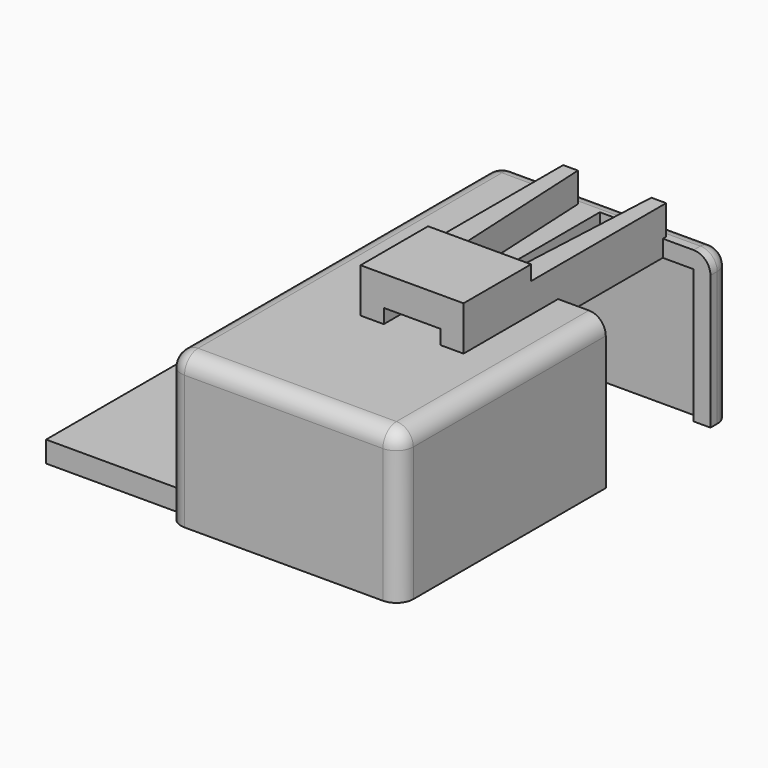
from build123d import *

# Parameters (mm, degrees)
SKETCH_W        = 47
SKETCH_H        = 90
PAD_DEPTH       = 35.75
THICKNESS_T     = 4
SKETCH001_R     = 0.025
POCKET_DEPTH    = 5
SKETCH002_W     = 7
SKETCH002_H     = 42
POCKET001_DEPTH = 5
SKETCH003_W     = 5.5
SKETCH003_H     = 60
PAD001_DEPTH    = 7
PAD001_FACE4_W  = 90
PAD001_FACE4_H  = 47
POCKET002_DEPTH = 4
SKETCH004_W     = 31
SKETCH004_H     = 40
POCKET003_DEPTH = 11.3
SKETCH005_W     = 90
SKETCH005_H     = 5
PAD002_DEPTH    = 32
PAD003_DEPTH    = 20
POCKET004_DEPTH = 7


with BuildPart() as part:
    # Sketch → Pad (new body)
    with BuildSketch(Plane.XY):
        with Locations((23.5, 45)):
            Rectangle(SKETCH_W, SKETCH_H)
    extrude(amount=PAD_DEPTH)

    # Thickness
    thickness_openings = [part.faces().sort_by_distance(p)[0] for p in [
        (23.5, 45, 0),
    ]]
    offset(amount=THICKNESS_T, openings=thickness_openings)

    # Sketch001 (on Face10 of Thickness) → Pocket (cut)
    with BuildSketch(Plane.YZ.offset(51)):
        with Locations((27, 19)):
            Circle(SKETCH001_R)
    extrude(amount=-POCKET_DEPTH, mode=Mode.SUBTRACT)

    # Sketch002 (on Face24 of Pocket) → Pocket001 (cut)
    with BuildSketch(Plane.XY.offset(39.75)):
        with Locations((27.5, 68)):
            Rectangle(SKETCH002_W, SKETCH002_H)
    extrude(amount=-POCKET001_DEPTH, mode=Mode.SUBTRACT)

    # Sketch003 (on Face28 of Pocket001) → Pad001 (join)
    with BuildSketch(Plane.XY.offset(39.75)):
        with Locations((18.05, 59)):
            Rectangle(SKETCH003_W, SKETCH003_H)
        with Locations((36.95, 59)):
            Rectangle(SKETCH003_W, SKETCH003_H)
    extrude(amount=PAD001_DEPTH)

    # Pad001 Face4 → Pocket002 (cut)
    with BuildSketch(Plane(origin=(23.5, 45, 0), x_dir=(0, -1, 0), z_dir=(0, 0, -1))):
        with BuildLine():
            ThreePointArc((-45, 27.5), (-47.828427, 26.328427), (-49, 23.5))
            Line((-49, 23.5), (-49, -23.5))
            ThreePointArc((-49, -23.5), (-47.828427, -26.328427), (-45, -27.5))
            Line((-45, -27.5), (45, -27.5))
            ThreePointArc((45, -27.5), (47.828427, -26.328427), (49, -23.5))
            Line((49, -23.5), (49, 23.5))
            ThreePointArc((49, 23.5), (47.828427, 26.328427), (45, 27.5))
            Line((45, 27.5), (-45, 27.5))
        make_face()
        Rectangle(PAD001_FACE4_W, PAD001_FACE4_H, mode=Mode.SUBTRACT)
    extrude(amount=-POCKET002_DEPTH, mode=Mode.SUBTRACT)

    # Sketch004 (on Face12 of Pocket002) → Pocket003 (cut)
    with BuildSketch(Plane.YZ.offset(51)):
        with Locations((72.5, 24)):
            Rectangle(SKETCH004_W, SKETCH004_H)
    extrude(amount=-POCKET003_DEPTH, mode=Mode.SUBTRACT)

    # Sketch005 (on Face11 of Pocket003) → Pad002 (join)
    with BuildSketch(Plane(origin=(-4, 0, 0), x_dir=(0, -1, 0), z_dir=(-1, 0, 0))):
        with Locations((-45, 6.5)):
            Rectangle(SKETCH005_W, SKETCH005_H)
    extrude(amount=PAD002_DEPTH)

    # Sketch006 (on Face47 of Pad002) → Pad003 (join)
    with BuildSketch(Plane.XZ.offset(-29)):
        Polygon((15.3, 50.25), (34.2, 50.25), (39.7, 50.25), (39.7, 46.75), (34.2, 46.75), (34.2, 43.15), (15.3, 43.15), align=None)
    extrude(amount=-PAD003_DEPTH)

    # Sketch007 (on Face49 of Pad003) → Pocket004 (cut)
    with BuildSketch(Plane.XY.offset(46.75)):
        Polygon((20.8, 89), (18.8, 89), (20.8, 49), align=None)
        Polygon((34.2, 89), (36.2, 89), (34.2, 49), align=None)
    extrude(amount=-POCKET004_DEPTH, mode=Mode.SUBTRACT)


solid = part.part
